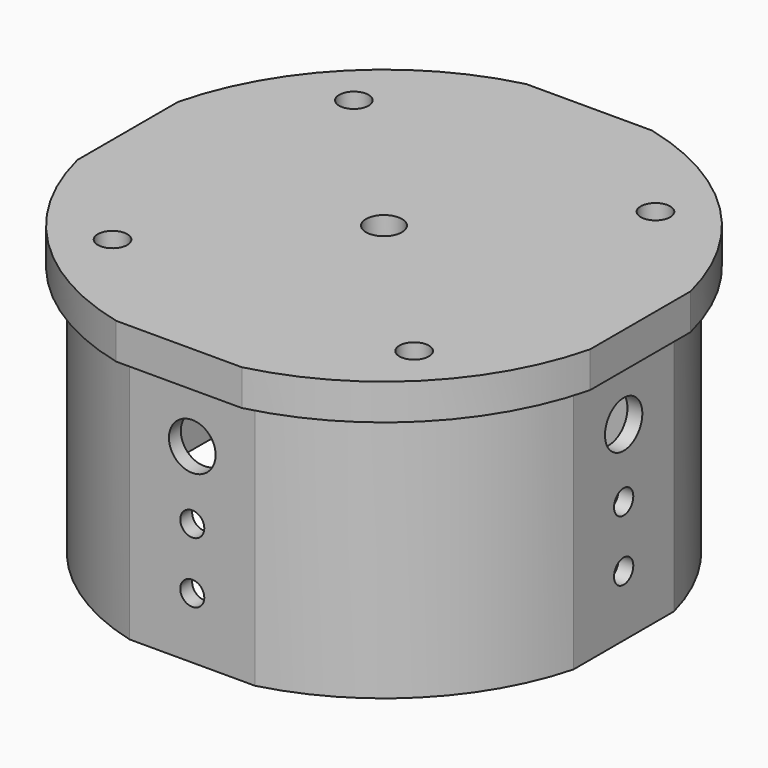
from build123d import *

# Parameters (mm, degrees)
F1_DEPTH  = 70
F3_DEPTH  = 10
F4_R      = 6.5
F4_R_2    = 3.35
F5_DEPTH  = 4.1439934524
F6_R      = 6.5
F6_R_2    = 3.35
F7_DEPTH  = 4.1439934524
F8_R      = 6.5
F8_R_2    = 3.35
F9_DEPTH  = 4.1439934524
F10_R     = 6.5
F10_R_2   = 3.35
F11_DEPTH = 4.1439934524
F12_R     = 5
F12_R_2   = 4.1
F13_DEPTH = 10


with BuildPart() as f1:
    # F0 (on Top) → F1 (new body)
    with BuildSketch(Plane.XY):
        with BuildLine():
            Line((17.5, 66.7439135802), (-17.5, 66.7439135802))
            ThreePointArc((-17.5, 66.7439135802), (-48.7903679019, 48.7903679019), (-66.7439135802, 17.5))
            Line((-66.7439135802, 17.5), (-66.7439135802, -17.5))
            ThreePointArc((-66.7439135802, -17.5), (-48.7903679019, -48.7903679019), (-17.5, -66.7439135802))
            Line((-17.5, -66.7439135802), (17.5, -66.7439135802))
            ThreePointArc((17.5, -66.7439135802), (48.7903679019, -48.7903679019), (66.7439135802, -17.5))
            Line((66.7439135802, -17.5), (66.7439135802, 17.5))
            ThreePointArc((66.7439135802, 17.5), (48.7903679019, 48.7903679019), (17.5, 66.7439135802))
        make_face()
        with BuildLine():
            ThreePointArc((-62.5999201277, 17.5), (-45.9619407771, 45.9619407771), (-17.5, 62.5999201277))
            Line((-17.5, 62.5999201277), (17.5, 62.5999201277))
            ThreePointArc((17.5, 62.5999201277), (45.9619407771, 45.9619407771), (62.5999201277, 17.5))
            Line((62.5999201277, 17.5), (62.5999201277, -17.5))
            ThreePointArc((62.5999201277, -17.5), (45.9619407771, -45.9619407771), (17.5, -62.5999201277))
            Line((17.5, -62.5999201277), (-17.5, -62.5999201277))
            ThreePointArc((-17.5, -62.5999201277), (-45.9619407771, -45.9619407771), (-62.5999201277, -17.5))
            Line((-62.5999201277, -17.5), (-62.5999201277, 17.5))
        make_face(mode=Mode.SUBTRACT)
    extrude(amount=F1_DEPTH)

    # F2 (on face) → F3 (join)
    with BuildSketch(Plane.XY.offset(70)):
        with BuildLine():
            Line((17.5, 71.3862731903), (-17.5, 71.3862731903))
            ThreePointArc((-17.5, 71.3862731903), (-51.9723484172, 51.9723484172), (-71.3862731903, 17.5))
            Line((-71.3862731903, 17.5), (-71.3862731903, -17.5))
            ThreePointArc((-71.3862731903, -17.5), (-51.9723484172, -51.9723484172), (-17.5, -71.3862731903))
            Line((-17.5, -71.3862731903), (17.5, -71.3862731903))
            ThreePointArc((17.5, -71.3862731903), (51.9723484172, -51.9723484172), (71.3862731903, -17.5))
            Line((71.3862731903, -17.5), (71.3862731903, 17.5))
            ThreePointArc((71.3862731903, 17.5), (51.9723484172, 51.9723484172), (17.5, 71.3862731903))
        make_face()
    extrude(amount=F3_DEPTH)

    # F4 (on face) → F5 (cut, through all)
    with BuildSketch(Plane.XZ.offset(66.7439135802)):
        with Locations((0, 53)):
            Circle(F4_R)
        with Locations((0, 34)):
            Circle(F4_R_2)
        with Locations((0, 17)):
            Circle(F4_R_2)
    extrude(amount=-F5_DEPTH, mode=Mode.SUBTRACT)

    # F6 (on face) → F7 (cut, through all)
    with BuildSketch(Plane.YZ.offset(66.7439135802)):
        with Locations((0, 53)):
            Circle(F6_R)
        with Locations((0, 34)):
            Circle(F6_R_2)
        with Locations((0, 17)):
            Circle(F6_R_2)
    extrude(amount=-F7_DEPTH, mode=Mode.SUBTRACT)

    # F8 (on face) → F9 (cut, through all)
    with BuildSketch(Plane(origin=(0, 66.7439135802, 0), x_dir=(-1, 0, 0), z_dir=(0, 1, 0))):
        with Locations((0, 53)):
            Circle(F8_R)
        with Locations((0, 34)):
            Circle(F8_R_2)
        with Locations((0, 17)):
            Circle(F8_R_2)
    extrude(amount=-F9_DEPTH, mode=Mode.SUBTRACT)

    # F10 (on face) → F11 (cut, through all)
    with BuildSketch(Plane(origin=(-66.7439135802, 0, 0), x_dir=(0, -1, 0), z_dir=(-1, 0, 0))):
        with Locations((0, 53)):
            Circle(F10_R)
        with Locations((0, 34)):
            Circle(F10_R_2)
        with Locations((0, 17)):
            Circle(F10_R_2)
    extrude(amount=-F11_DEPTH, mode=Mode.SUBTRACT)

    # F12 (on face) → F13 (cut, through all)
    with BuildSketch(Plane.XY.offset(80)):
        Circle(F12_R)
        with Locations((-42, 42)):
            Circle(F12_R_2)
        with Locations((42, 42)):
            Circle(F12_R_2)
        with Locations((42, -42)):
            Circle(F12_R_2)
        with Locations((-42, -42)):
            Circle(F12_R_2)
    extrude(amount=-F13_DEPTH, mode=Mode.SUBTRACT)


solid = f1.part
